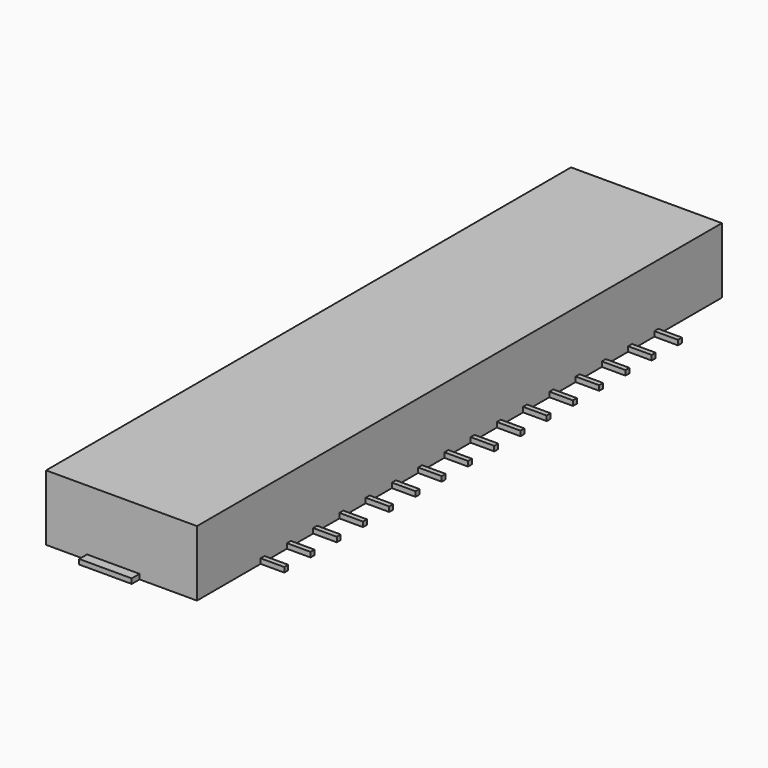
from build123d import *

# Parameters (mm, degrees)
BOX_W        = 4.6
BOX_H        = 20
BOX_DEPTH    = 2
BOX001_W     = 0.72
BOX001_H     = 0.15
BOX001_DEPTH = 0.15
BOX002_W     = 0.72
BOX002_H     = 0.15
BOX002_DEPTH = 0.15
BOX003_W     = 0.72
BOX003_H     = 0.15
BOX003_DEPTH = 0.15
BOX004_W     = 0.72
BOX004_H     = 0.15
BOX004_DEPTH = 0.15
BOX005_W     = 0.72
BOX005_H     = 0.15
BOX005_DEPTH = 0.15
BOX006_W     = 0.72
BOX006_H     = 0.15
BOX006_DEPTH = 0.15
BOX007_W     = 0.72
BOX007_H     = 0.15
BOX007_DEPTH = 0.15
BOX008_W     = 0.72
BOX008_H     = 0.15
BOX008_DEPTH = 0.15
BOX009_W     = 0.72
BOX009_H     = 0.15
BOX009_DEPTH = 0.15
BOX010_W     = 0.72
BOX010_H     = 0.15
BOX010_DEPTH = 0.15
BOX011_W     = 0.72
BOX011_H     = 0.15
BOX011_DEPTH = 0.15
BOX012_W     = 0.72
BOX012_H     = 0.15
BOX012_DEPTH = 0.15
BOX013_W     = 0.72
BOX013_H     = 0.15
BOX013_DEPTH = 0.15
BOX014_W     = 0.72
BOX014_H     = 0.15
BOX014_DEPTH = 0.15
BOX015_W     = 0.72
BOX015_H     = 0.15
BOX015_DEPTH = 0.15
BOX016_W     = 0.72
BOX016_H     = 0.15
BOX016_DEPTH = 0.15
BOX017_W     = 1.6
BOX017_H     = 0.3
BOX017_DEPTH = 0.15
BOX018_W     = 1.6
BOX018_H     = 0.3
BOX018_DEPTH = 0.15


with BuildPart() as body:
    # Box → Box (new body)
    with BuildSketch(Plane.XY):
        with Locations((2.3, 10)):
            Rectangle(BOX_W, BOX_H)
    extrude(amount=BOX_DEPTH)


with BuildPart() as box001:
    # Box001 → Box001 (new body)
    with BuildSketch(Plane(origin=(4.6, 17.425, 0), x_dir=(1, 0, 0), z_dir=(0, 0, 1))):
        with Locations((0.36, 0.075)):
            Rectangle(BOX001_W, BOX001_H)
    extrude(amount=BOX001_DEPTH)


with BuildPart() as box002:
    # Box002 → Box002 (new body)
    with BuildSketch(Plane(origin=(4.6, 16.425, 0), x_dir=(1, 0, 0), z_dir=(0, 0, 1))):
        with Locations((0.36, 0.075)):
            Rectangle(BOX002_W, BOX002_H)
    extrude(amount=BOX002_DEPTH)


with BuildPart() as box003:
    # Box003 → Box003 (new body)
    with BuildSketch(Plane(origin=(4.6, 15.425, 0), x_dir=(1, 0, 0), z_dir=(0, 0, 1))):
        with Locations((0.36, 0.075)):
            Rectangle(BOX003_W, BOX003_H)
    extrude(amount=BOX003_DEPTH)


with BuildPart() as box004:
    # Box004 → Box004 (new body)
    with BuildSketch(Plane(origin=(4.6, 14.425, 0), x_dir=(1, 0, 0), z_dir=(0, 0, 1))):
        with Locations((0.36, 0.075)):
            Rectangle(BOX004_W, BOX004_H)
    extrude(amount=BOX004_DEPTH)


with BuildPart() as box005:
    # Box005 → Box005 (new body)
    with BuildSketch(Plane(origin=(4.6, 13.425, 0), x_dir=(1, 0, 0), z_dir=(0, 0, 1))):
        with Locations((0.36, 0.075)):
            Rectangle(BOX005_W, BOX005_H)
    extrude(amount=BOX005_DEPTH)


with BuildPart() as box006:
    # Box006 → Box006 (new body)
    with BuildSketch(Plane(origin=(4.6, 12.425, 0), x_dir=(1, 0, 0), z_dir=(0, 0, 1))):
        with Locations((0.36, 0.075)):
            Rectangle(BOX006_W, BOX006_H)
    extrude(amount=BOX006_DEPTH)


with BuildPart() as box007:
    # Box007 → Box007 (new body)
    with BuildSketch(Plane(origin=(4.6, 11.425, 0), x_dir=(1, 0, 0), z_dir=(0, 0, 1))):
        with Locations((0.36, 0.075)):
            Rectangle(BOX007_W, BOX007_H)
    extrude(amount=BOX007_DEPTH)


with BuildPart() as box008:
    # Box008 → Box008 (new body)
    with BuildSketch(Plane(origin=(4.6, 10.425, 0), x_dir=(1, 0, 0), z_dir=(0, 0, 1))):
        with Locations((0.36, 0.075)):
            Rectangle(BOX008_W, BOX008_H)
    extrude(amount=BOX008_DEPTH)


with BuildPart() as box009:
    # Box009 → Box009 (new body)
    with BuildSketch(Plane(origin=(4.6, 9.425, 0), x_dir=(1, 0, 0), z_dir=(0, 0, 1))):
        with Locations((0.36, 0.075)):
            Rectangle(BOX009_W, BOX009_H)
    extrude(amount=BOX009_DEPTH)


with BuildPart() as box010:
    # Box010 → Box010 (new body)
    with BuildSketch(Plane(origin=(4.6, 8.425, 0), x_dir=(1, 0, 0), z_dir=(0, 0, 1))):
        with Locations((0.36, 0.075)):
            Rectangle(BOX010_W, BOX010_H)
    extrude(amount=BOX010_DEPTH)


with BuildPart() as box011:
    # Box011 → Box011 (new body)
    with BuildSketch(Plane(origin=(4.6, 7.425, 0), x_dir=(1, 0, 0), z_dir=(0, 0, 1))):
        with Locations((0.36, 0.075)):
            Rectangle(BOX011_W, BOX011_H)
    extrude(amount=BOX011_DEPTH)


with BuildPart() as box012:
    # Box012 → Box012 (new body)
    with BuildSketch(Plane(origin=(4.6, 6.425, 0), x_dir=(1, 0, 0), z_dir=(0, 0, 1))):
        with Locations((0.36, 0.075)):
            Rectangle(BOX012_W, BOX012_H)
    extrude(amount=BOX012_DEPTH)


with BuildPart() as box013:
    # Box013 → Box013 (new body)
    with BuildSketch(Plane(origin=(4.6, 5.425, 0), x_dir=(1, 0, 0), z_dir=(0, 0, 1))):
        with Locations((0.36, 0.075)):
            Rectangle(BOX013_W, BOX013_H)
    extrude(amount=BOX013_DEPTH)


with BuildPart() as box014:
    # Box014 → Box014 (new body)
    with BuildSketch(Plane(origin=(4.6, 4.425, 0), x_dir=(1, 0, 0), z_dir=(0, 0, 1))):
        with Locations((0.36, 0.075)):
            Rectangle(BOX014_W, BOX014_H)
    extrude(amount=BOX014_DEPTH)


with BuildPart() as box015:
    # Box015 → Box015 (new body)
    with BuildSketch(Plane(origin=(4.6, 3.425, 0), x_dir=(1, 0, 0), z_dir=(0, 0, 1))):
        with Locations((0.36, 0.075)):
            Rectangle(BOX015_W, BOX015_H)
    extrude(amount=BOX015_DEPTH)


with BuildPart() as box016:
    # Box016 → Box016 (new body)
    with BuildSketch(Plane(origin=(4.6, 2.425, 0), x_dir=(1, 0, 0), z_dir=(0, 0, 1))):
        with Locations((0.36, 0.075)):
            Rectangle(BOX016_W, BOX016_H)
    extrude(amount=BOX016_DEPTH)


with BuildPart() as left_mounting:
    # Box017 → Box017 (new body)
    with BuildSketch(Plane(origin=(1.25, -0.3, 0), x_dir=(1, 0, 0), z_dir=(0, 0, 1))):
        with Locations((0.8, 0.15)):
            Rectangle(BOX017_W, BOX017_H)
    extrude(amount=BOX017_DEPTH)


with BuildPart() as right_mounting:
    # Box018 → Box018 (new body)
    with BuildSketch(Plane(origin=(1.25, 20, 0), x_dir=(1, 0, 0), z_dir=(0, 0, 1))):
        with Locations((0.8, 0.15)):
            Rectangle(BOX018_W, BOX018_H)
    extrude(amount=BOX018_DEPTH)


solid = Compound([body.part, box001.part, box002.part, box003.part, box004.part, box005.part, box006.part, box007.part, box008.part, box009.part, box010.part, box011.part, box012.part, box013.part, box014.part, box015.part, box016.part, left_mounting.part, right_mounting.part])
